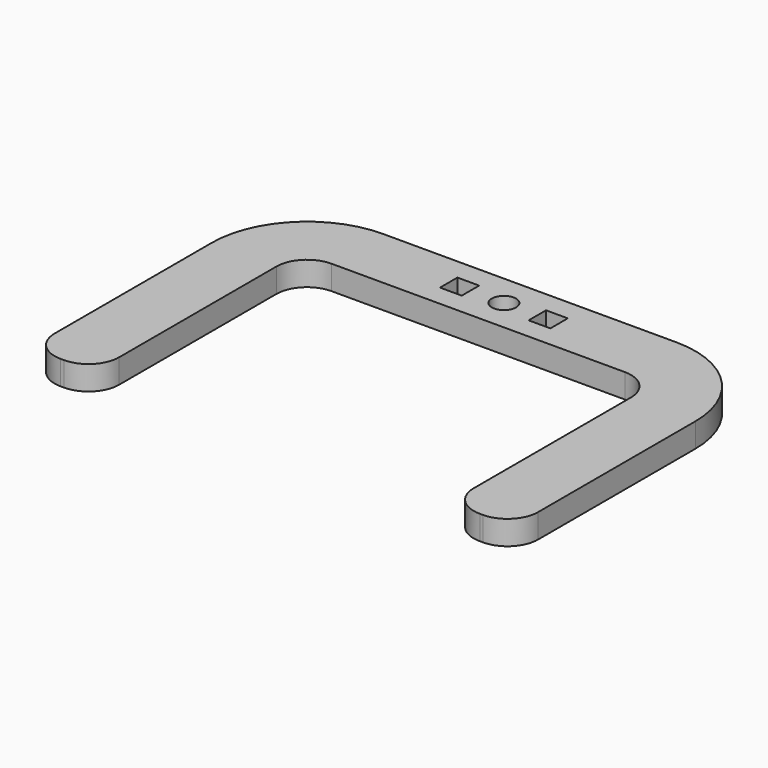
from build123d import *

# Parameters (mm, degrees)
SKETCH_R                 = 1.5
SKETCH_W                 = 2.700009
SKETCH_H                 = 2.699989
PAD_DEPTH                = 3
FILLET_R                 = 3.8
FILLET001_R              = 11.8
CLONE003_PLACEMENT_ANGLE = 180


with BuildPart() as part:
    # Sketch (on Face9 of Binder004) → Pad (new body)
    with BuildSketch(Plane(origin=(0, 1.8e-05, 2.818036), x_dir=(1, 0, 0), z_dir=(0, -6e-06, -1))):
        Polygon((-30, 24.600493), (-30, -15.399507), (-22, -15.399507), (-22, 16.600493), (22, 16.600493), (22, -15.399507), (30, -15.399507), (30, 24.600493), align=None)
        with Locations((0, 20.600493)):
            Circle(SKETCH_R, mode=Mode.SUBTRACT)
        with Locations((-5.49402, 20.600472)):
            Rectangle(SKETCH_W, SKETCH_H, mode=Mode.SUBTRACT)
        with Locations((5.50598, 20.600513)):
            Rectangle(SKETCH_W, SKETCH_H, mode=Mode.SUBTRACT)
    extrude(amount=PAD_DEPTH)

    # Fillet
    fillet_edges = [part.edges().sort_by_distance(p)[0] for p in [
        (-30, 15.399516, 1.317937),
        (-22, 15.399516, 1.317937),
        (22, 15.399516, 1.317937),
        (30, 15.399516, 1.317937),
        (-22, -16.600484, 1.318144),
        (22, -16.600484, 1.318144),
    ]]
    fillet(fillet_edges, radius=FILLET_R)

    # Fillet001
    fillet001_edges = [part.edges().sort_by_distance(p)[0] for p in [
        (30, -24.600484, 1.318195),
        (-30, -24.600484, 1.318195),
    ]]
    fillet(fillet001_edges, radius=FILLET001_R)


with BuildPart() as part_1:
    # Body placement: moved
    add(part.part.moved(Location((12.1, 0, -69.4))))


with BuildPart() as part_2:
    # Clone003 placement: moved
    add(part_1.part.moved(Location((6.2, 0, 10.4))).rotate(Axis((6.2, 0, 10.4), (0, 0, 1)), CLONE003_PLACEMENT_ANGLE))


solid = part_2.part
